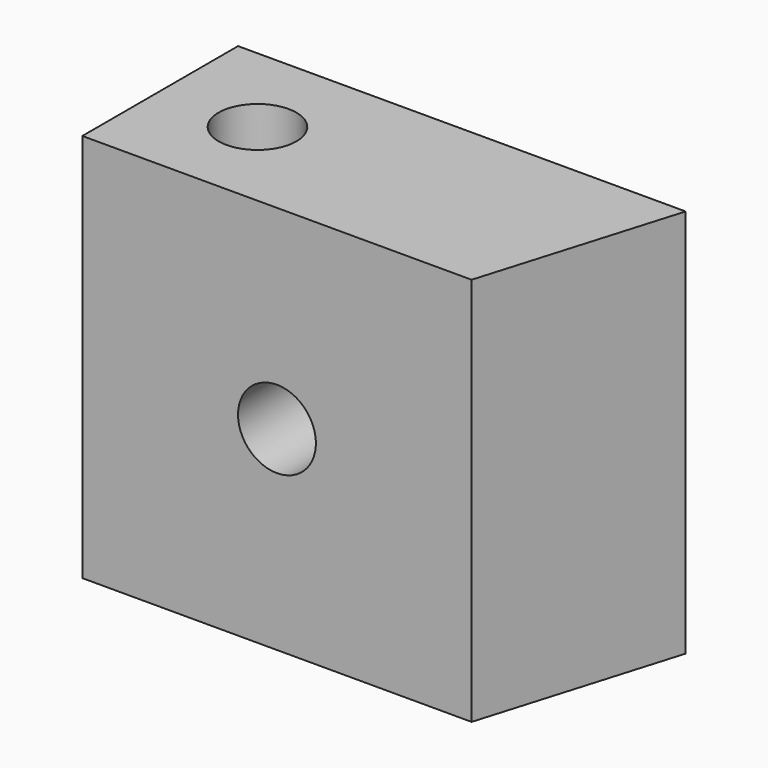
from build123d import *

# Parameters (mm, degrees)
F0_W     = 20
F0_H     = 10
F1_DEPTH = 10
F2_DEPTH = 10
F3_DEPTH = 20
F4_R     = 2
F5_DEPTH = 25
F6_R     = 2
F7_DEPTH = 25


with BuildPart() as f1:
    # F0 (on Top) → F1 (new body)
    with BuildSketch(Plane.XY):
        with Locations((10, 5)):
            Rectangle(F0_W, F0_H)
    extrude(amount=F1_DEPTH)

    # F0 (on Top) → F2 (join)
    with BuildSketch(Plane.XY):
        with Locations((10, 5)):
            Rectangle(F0_W, F0_H)
        Polygon((20, 10), (20, 0), (23, 10), align=None)
    extrude(amount=F2_DEPTH)

    # F0 (on Top) → F3 (join)
    with BuildSketch(Plane.XY):
        with Locations((10, 5)):
            Rectangle(F0_W, F0_H)
        Polygon((20, 10), (20, 0), (23, 10), align=None)
    extrude(amount=F3_DEPTH)

    # F4 (on face) → F5 (cut)
    with BuildSketch(Plane(origin=(0, 10, 0), x_dir=(-1, 0, 0), z_dir=(0, 1, 0))):
        with Locations((-10, 10)):
            Circle(F4_R)
    extrude(amount=-F5_DEPTH, mode=Mode.SUBTRACT)

    # F6 (on face) → F7 (cut)
    with BuildSketch(Plane.XY.offset(20)):
        with Locations((5, 5)):
            Circle(F6_R)
    extrude(amount=-F7_DEPTH, mode=Mode.SUBTRACT)


solid = f1.part
